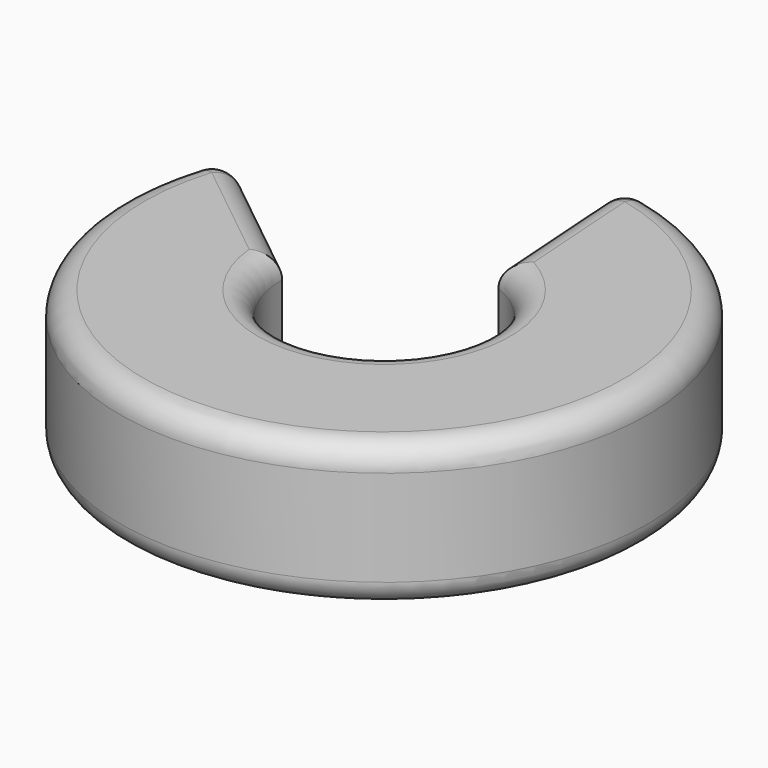
from build123d import *

# Parameters (mm, degrees)
F1_DEPTH = 6
F2_R     = 1


with BuildPart() as f1:
    # F0 (on Top) → F1 (new body)
    with BuildSketch(Plane.XY):
        with BuildLine():
            Line((-4.25, 0), (-9.994602, 4.594337))
            ThreePointArc((-9.994602, 4.594337), (5.443818, -9.558496), (1.147387, 10.939996))
            Line((1.147387, 10.939996), (1.622562, 3.928078))
            ThreePointArc((1.622562, 3.928078), (2.362902, -3.53259), (-4.25, 0))
        make_face()
    extrude(amount=F1_DEPTH)

    # F2
    f2_edges = [f1.edges().sort_by_distance(p)[0] for p in [
        (5.443818, -9.558496, 6),
        (2.362902, -3.53259, 6),
        (2.362902, -3.53259, 0),
        (5.443818, -9.558496, 0),
        (-7.122301, 2.297168, 0),
        (-9.994602, 4.594337, 3),
        (-7.122301, 2.297168, 6),
        (1.384974, 7.434037, 0),
        (1.147387, 10.939996, 3),
        (1.384974, 7.434037, 6),
    ]]
    fillet(f2_edges, radius=F2_R)


solid = f1.part
